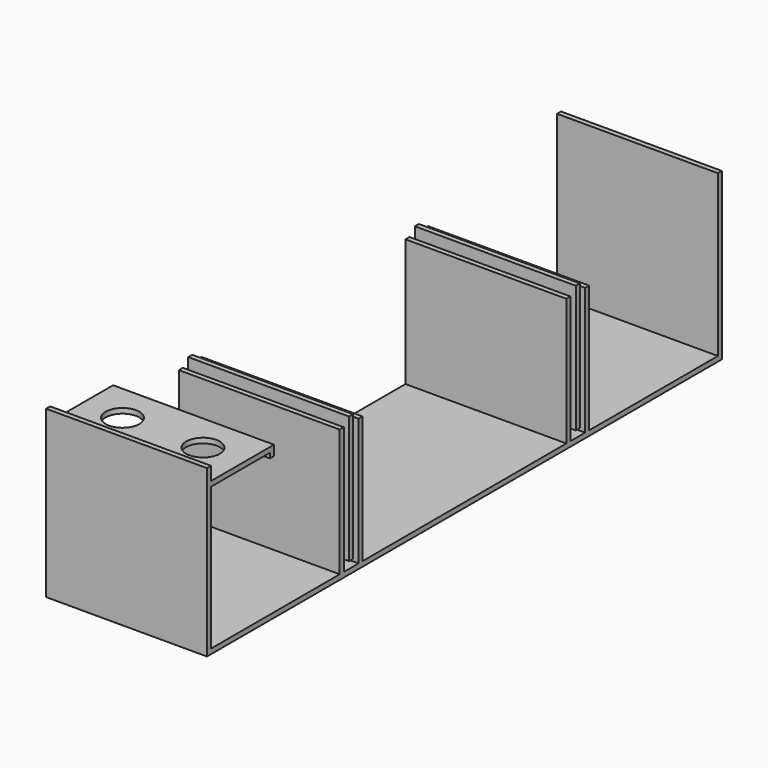
from build123d import *

# Parameters (mm, degrees)
F0_W     = 19.05
F0_H     = 482.6
F1_DEPTH = 609.6
F3_D     = 127
F3_DEPTH = 19.05


with BuildPart() as f1:
    # F0 (on Right) → F1 (new body)
    with BuildSketch(Plane.YZ):
        Polygon((-46.707602, 601.441733), (-65.757602, 601.441733), (-65.757602, -8.158267), (-65.757602, -26.947027), (2372.642398, -26.947027), (2372.642398, -8.158267), (2372.642398, 601.441733), (2353.592398, 601.441733), (2353.592398, -8.158267), (1743.992398, -8.158267), (1743.992398, 474.441733), (1724.942398, 474.441733), (1724.942398, -8.158267), (1655.092398, -8.158267), (1655.092398, 474.441733), (1636.042398, 474.441733), (1636.042398, -8.158267), (670.842398, -8.158267), (670.842398, 474.441733), (651.792398, 474.441733), (651.792398, -8.158267), (581.942398, -8.158267), (581.942398, 474.441733), (562.892398, 474.441733), (562.892398, -8.158267), (-46.707602, -8.158267), (-46.707602, 531.591733), (232.456401, 531.591733), (232.456401, 512.541733), (251.506401, 512.541733), (251.506401, 550.641733), (-46.707602, 550.641733), align=None)
        with Locations((616.867398, 258.541733)):
            Rectangle(F0_W, F0_H)
        with Locations((1690.017398, 258.541733)):
            Rectangle(F0_W, F0_H)
    extrude(amount=F1_DEPTH)

    # F3
    with Locations(Plane.XY.offset(550.641733)):
        with Locations((152.4, 105.692398), (457.2, 105.692398)):
            Hole(F3_D / 2, depth=F3_DEPTH)


solid = f1.part
